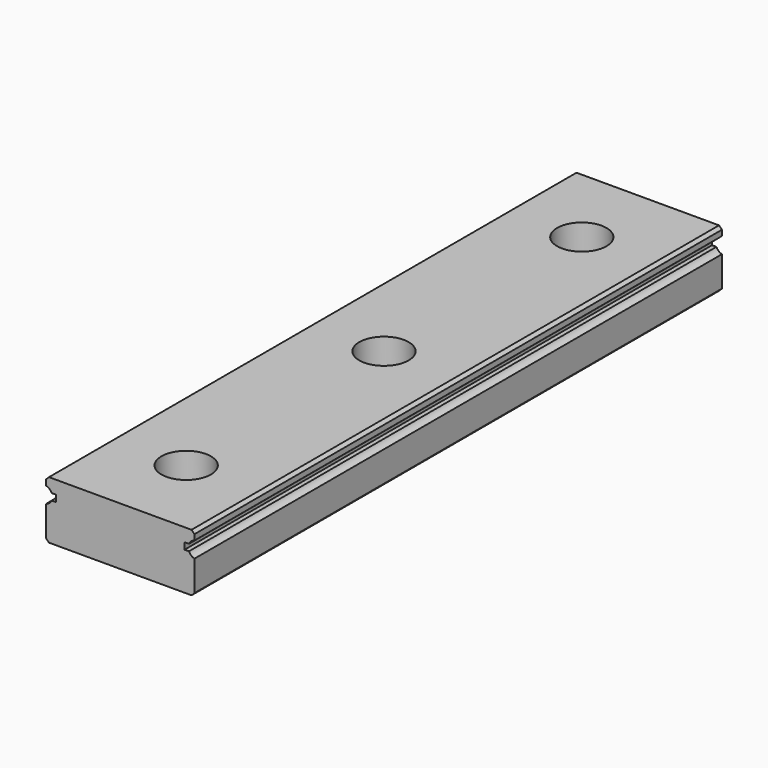
from build123d import *

# Parameters (mm, degrees)
F4_DEPTH       = 80
F6_D           = 3.5
F6_CBORE_D     = 6
F6_CBORE_DEPTH = 4.5


with BuildPart() as f4:
    # F3 (on Front) → F4 (new body)
    with BuildSketch(Plane.XZ):
        with BuildLine():
            Line((-8.6464466094, -3.5), (0, -3.5))
            Line((0, -3.5), (8.6464466094, -3.5))
            Line((8.6464466094, -3.5), (9, -3.1464466094))
            Line((9, -3.1464466094), (9, 0.5317541634))
            ThreePointArc((9, 0.5317541634), (8.6012202029, 0.7390238013), (8.333484861, 1.1))
            Line((8.333484861, 1.1), (7.8, 1.1))
            Line((7.8, 1.1), (7.8, 1.9))
            Line((7.8, 1.9), (8.333484861, 1.9))
            ThreePointArc((8.333484861, 1.9), (8.6012202029, 2.2609761987), (9, 2.4682458366))
            Line((9, 2.4682458366), (9, 3.1464466094))
            Line((9, 3.1464466094), (8.6464466094, 3.5))
            Line((8.6464466094, 3.5), (0, 3.5))
            Line((0, 3.5), (-8.6464466094, 3.5))
            Line((-8.6464466094, 3.5), (-9, 3.1464466094))
            Line((-9, 3.1464466094), (-9, 2.4682458366))
            ThreePointArc((-9, 2.4682458366), (-8.6012202029, 2.2609761987), (-8.333484861, 1.9))
            Line((-8.333484861, 1.9), (-7.8, 1.9))
            Line((-7.8, 1.9), (-7.8, 1.1))
            Line((-7.8, 1.1), (-8.333484861, 1.1))
            ThreePointArc((-8.333484861, 1.1), (-8.6012202029, 0.7390238013), (-9, 0.5317541634))
            Line((-9, 0.5317541634), (-9, -3.1464466094))
            Line((-9, -3.1464466094), (-8.6464466094, -3.5))
        make_face()
    extrude(amount=F4_DEPTH)

    # F6 (through all)
    with Locations(Plane.XY.offset(3.5)):
        with Locations((0, -460), (0, -1090), (0, -790), (0, -160), (0, -580), (0, -640), (0, -190), (0, -10), (0, -130), (0, -730), (0, -100), (0, -610), (0, -40), (0, -1180), (0, -340), (0, -1150), (0, -1120), (0, -760), (0, -940), (0, -1030), (0, -700), (0, -400), (0, -550), (0, -490), (0, -910), (0, -220), (0, -670), (0, -280), (0, -970), (0, -850), (0, -310), (0, -70), (0, -1060), (0, -880), (0, -1000), (0, -520), (0, -250), (0, -370), (0, -820), (0, -430), (0, -1420), (0, -1900), (0, -1450), (0, -1330), (0, -1510), (0, -1540), (0, -1930), (0, -1960), (0, -1480), (0, -1390), (0, -1870), (0, -1570), (0, -1360), (0, -1210), (0, -1810), (0, -1690), (0, -1840), (0, -1630), (0, -1240), (0, -1270), (0, -1600), (0, -1780), (0, -1300), (0, -1720), (0, -1750), (0, -1660)):
            CounterBoreHole(F6_D / 2, F6_CBORE_D / 2, F6_CBORE_DEPTH)


solid = f4.part
